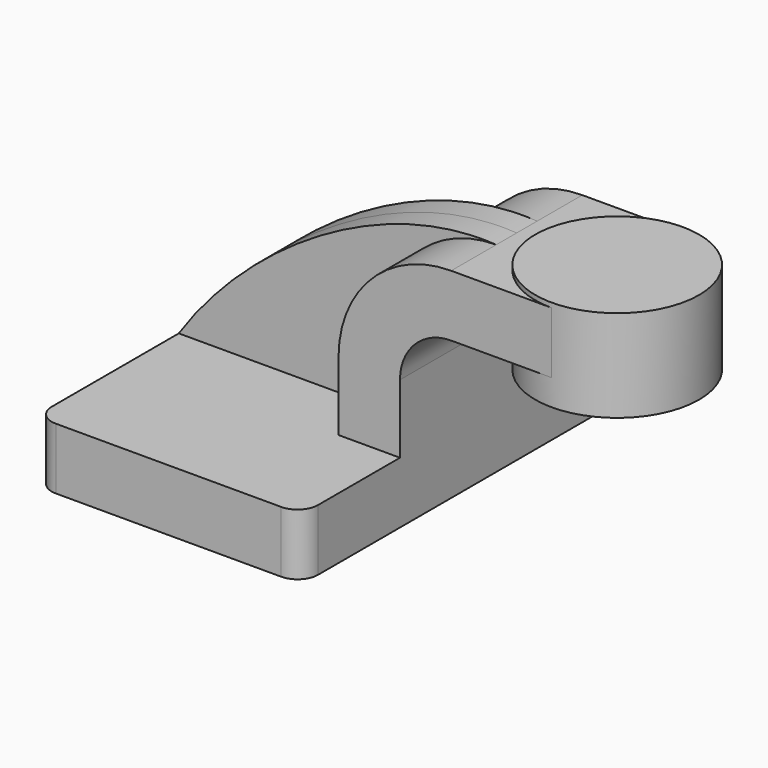
from build123d import *

# Parameters (mm, degrees)
F1_DEPTH = 63.5
F0_W     = 25.4
F0_H     = 19.05
F2_DEPTH = 25.4
F3_DEPTH = 7.9375
F5_R     = 6.35


with BuildPart() as f1:
    # F0 (on Front) → F1 (new body, symmetric)
    with BuildSketch(Plane.XZ):
        Polygon((-41.275, 9.525), (-41.275, -9.525), (41.275, -9.525), (41.275, 9.525), (22.225, 9.525), align=None)
    extrude(amount=F1_DEPTH, both=True)

    # F0 (on Front) → F2 (join, symmetric)
    with BuildSketch(Plane.XZ):
        with BuildLine():
            Line((22.225, 9.525), (41.275, 9.525))
            Line((41.275, 9.525), (41.275, 30.8000269385))
            ThreePointArc((41.275, 30.8000269385), (45.9246798487, 42.0253470898), (57.15, 46.6750269385))
            Line((57.15, 46.6750269385), (62.8952502342, 46.6750269385))
            Line((62.8952502342, 46.6750269385), (62.8952502342, 65.7250269385))
            Line((62.8952502342, 65.7250269385), (57.15, 65.7250269385))
            ThreePointArc((57.15, 65.7250269385), (32.4542956671, 55.4957312714), (22.225, 30.8000269385))
            Line((22.225, 30.8000269385), (22.225, 9.525))
        make_face()
        with Locations((75.5952502342, 56.2000269385)):
            Rectangle(F0_W, F0_H)
    extrude(amount=F2_DEPTH, both=True)

    # F0 (on Front) → F3 (join, symmetric)
    with BuildSketch(Plane.XZ):
        with BuildLine():
            add(Edge.make_bspline(
                [(-41.275, 9.525), (-19.8715052223, 41.4688585122), (21.5158074969, 68.07404407), (57.15, 65.7250269385)],
                knots=[0, 0, 0, 0, 113.3398590651, 113.3398590651, 113.3398590651, 113.3398590651], degree=3))
            Line((-41.275, 9.525), (22.225, 9.525))
            Line((22.225, 9.525), (22.225, 30.8000269385))
            ThreePointArc((22.225, 30.8000269385), (32.4542956671, 55.4957312714), (57.15, 65.7250269385))
        make_face()
    extrude(amount=F3_DEPTH, both=True)

    # F0 (on Front) → F4 (revolve)
    with BuildSketch(Plane.XZ):
        Polygon((88.2952502342, 67.1590872239), (88.2952502342, 65.7250269385), (88.2952502342, 46.6750269385), (88.2952502342, 38.5840872239), (113.6952502342, 38.5840872239), (113.6952502342, 67.1590872239), align=None)
    revolve(axis=Axis((88.2952502342, 0, 52.8715872239), (0, 0, 1)))

    # F5
    f5_edges = [f1.edges().sort_by_distance(p)[0] for p in [
        (41.275, -63.5, 0),
        (-41.275, -63.5, 0),
        (41.275, 63.5, 0),
    ]]
    fillet(f5_edges, radius=F5_R)


solid = f1.part
